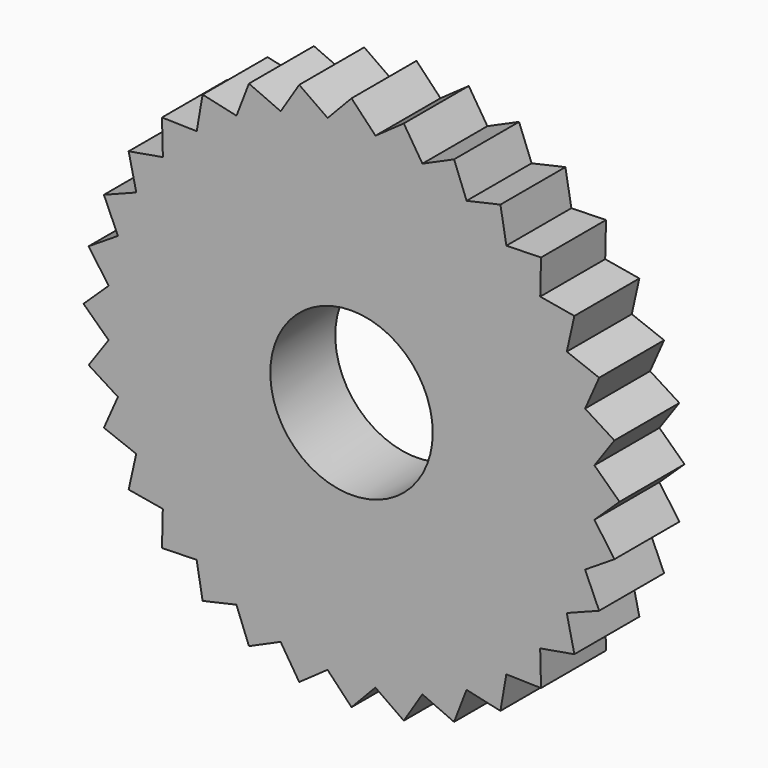
from build123d import *

# Parameters (mm, degrees)
F1_DEPTH = 25.4
F2_DEPTH = 25.4


with BuildPart() as f1:
    # F0 (on Front) → F1 (new body)
    with BuildSketch(Plane.XZ):
        with BuildLine():
            ThreePointArc((75.8463119216, -7.333278114), (76.1115266186, -3.6709012229), (76.2, 0))
            ThreePointArc((76.2, 0), (76.1122749967, 3.6553515317), (75.8493019732, 7.3022866401))
            ThreePointArc((75.8493019732, 7.3022866401), (75.8346004903, 7.4534132101), (75.8195978942, 7.6045101852))
            ThreePointArc((75.8195978942, 7.6045101852), (74.7388739127, 14.8506136664), (72.9672734521, 21.9594399966))
            ThreePointArc((72.9672734521, 21.9594399966), (72.9233711228, 22.1047945949), (72.87917924, 22.2500614226))
            ThreePointArc((72.87917924, 22.2500614226), (70.4055764051, 29.1460942677), (67.2811535328, 35.7727043889))
            ThreePointArc((67.2811535328, 35.7727043889), (67.209737499, 35.9067011198), (67.1380545986, 36.0405552776))
            ThreePointArc((67.1380545986, 36.0405552776), (63.3666320803, 42.3215068116), (59.0094566149, 48.2112438132))
            ThreePointArc((59.0094566149, 48.2112438132), (58.9132713548, 48.3287332575), (58.8168521705, 48.446030805))
            ThreePointArc((58.8168521705, 48.446030805), (53.892543621, 53.8705275829), (48.4700593721, 58.7970521749))
            ThreePointArc((48.4700593721, 58.7970521749), (48.3528012314, 58.8935192791), (48.2353510983, 58.9897525374))
            ThreePointArc((48.2353510983, 58.9897525374), (42.3473949336, 63.3493341902), (36.0679849301, 67.1233227953))
            ThreePointArc((36.0679849301, 67.1233227953), (35.9341600732, 67.1950603827), (35.8001925341, 67.2665311616))
            ThreePointArc((35.8001925341, 67.2665311616), (29.1748596076, 70.3936614112), (22.2798380543, 72.8700817639))
            ThreePointArc((22.2798380543, 72.8700817639), (22.1345892955, 72.9143329992), (21.9892526478, 72.9582947168))
            ThreePointArc((21.9892526478, 72.9582947168), (14.8811507884, 74.7327997014), (7.6354894968, 75.8164843563))
            ThreePointArc((7.6354894968, 75.8164843563), (7.4843986644, 75.8315486894), (7.333278114, 75.8463119216))
            ThreePointArc((7.333278114, 75.8463119216), (3.6709012229, 76.1115266186), (0, 76.2))
            ThreePointArc((0, 76.2), (-3.6553515317, 76.1122749967), (-7.3022866401, 75.8493019732))
            ThreePointArc((-7.3022866401, 75.8493019732), (-7.4534132101, 75.8346004903), (-7.6045101852, 75.8195978942))
            ThreePointArc((-7.6045101852, 75.8195978942), (-14.8506136664, 74.7388739127), (-21.9594399966, 72.9672734521))
            ThreePointArc((-21.9594399966, 72.9672734521), (-22.1047945949, 72.9233711228), (-22.2500614226, 72.87917924))
            ThreePointArc((-22.2500614226, 72.87917924), (-29.1460942677, 70.4055764051), (-35.7727043889, 67.2811535328))
            ThreePointArc((-35.7727043889, 67.2811535328), (-35.9067011198, 67.209737499), (-36.0405552776, 67.1380545986))
            ThreePointArc((-36.0405552776, 67.1380545986), (-42.3215068116, 63.3666320803), (-48.2112438132, 59.0094566149))
            ThreePointArc((-48.2112438132, 59.0094566149), (-48.3287332575, 58.9132713548), (-48.446030805, 58.8168521705))
            ThreePointArc((-48.446030805, 58.8168521705), (-53.8705275829, 53.892543621), (-58.7970521749, 48.4700593721))
            ThreePointArc((-58.7970521749, 48.4700593721), (-58.8935192791, 48.3528012314), (-58.9897525374, 48.2353510983))
            ThreePointArc((-58.9897525374, 48.2353510983), (-63.3493341902, 42.3473949336), (-67.1233227953, 36.0679849301))
            ThreePointArc((-67.1233227953, 36.0679849301), (-67.1950603827, 35.9341600732), (-67.2665311616, 35.8001925341))
            ThreePointArc((-67.2665311616, 35.8001925341), (-70.3936614112, 29.1748596076), (-72.8700817639, 22.2798380543))
            ThreePointArc((-72.8700817639, 22.2798380543), (-72.9143329992, 22.1345892955), (-72.9582947168, 21.9892526478))
            ThreePointArc((-72.9582947168, 21.9892526478), (-74.7327997014, 14.8811507884), (-75.8164843563, 7.6354894968))
            ThreePointArc((-75.8164843563, 7.6354894968), (-75.8315486894, 7.4843986644), (-75.8463119216, 7.333278114))
            ThreePointArc((-75.8463119216, 7.333278114), (-76.1999984098, 0.0155676898), (-75.8493019732, -7.3022866401))
            ThreePointArc((-75.8493019732, -7.3022866401), (-75.8346004903, -7.4534132101), (-75.8195978942, -7.6045101852))
            ThreePointArc((-75.8195978942, -7.6045101852), (-74.7388739127, -14.8506136664), (-72.9672734521, -21.9594399966))
            ThreePointArc((-72.9672734521, -21.9594399966), (-72.9233711228, -22.1047945949), (-72.87917924, -22.2500614226))
            ThreePointArc((-72.87917924, -22.2500614226), (-70.4055764051, -29.1460942677), (-67.2811535328, -35.7727043889))
            ThreePointArc((-67.2811535328, -35.7727043889), (-67.209737499, -35.9067011198), (-67.1380545986, -36.0405552776))
            ThreePointArc((-67.1380545986, -36.0405552776), (-63.3666320803, -42.3215068116), (-59.0094566149, -48.2112438132))
            ThreePointArc((-59.0094566149, -48.2112438132), (-58.9132713548, -48.3287332575), (-58.8168521705, -48.446030805))
            ThreePointArc((-58.8168521705, -48.446030805), (-53.892543621, -53.8705275829), (-48.4700593721, -58.7970521749))
            ThreePointArc((-48.4700593721, -58.7970521749), (-48.3528012314, -58.8935192791), (-48.2353510983, -58.9897525374))
            ThreePointArc((-48.2353510983, -58.9897525374), (-42.3473949336, -63.3493341902), (-36.0679849301, -67.1233227953))
            ThreePointArc((-36.0679849301, -67.1233227953), (-35.9341600732, -67.1950603827), (-35.8001925341, -67.2665311616))
            ThreePointArc((-35.8001925341, -67.2665311616), (-29.1748596076, -70.3936614112), (-22.2798380543, -72.8700817639))
            ThreePointArc((-22.2798380543, -72.8700817639), (-22.1345892955, -72.9143329992), (-21.9892526478, -72.9582947168))
            ThreePointArc((-21.9892526478, -72.9582947168), (-14.8811507884, -74.7327997014), (-7.6354894968, -75.8164843563))
            ThreePointArc((-7.6354894968, -75.8164843563), (-7.4843986644, -75.8315486894), (-7.333278114, -75.8463119216))
            ThreePointArc((-7.333278114, -75.8463119216), (-0.0155676898, -76.1999984098), (7.3022866401, -75.8493019732))
            ThreePointArc((7.3022866401, -75.8493019732), (7.4534132101, -75.8346004903), (7.6045101852, -75.8195978942))
            ThreePointArc((7.6045101852, -75.8195978942), (14.8506136664, -74.7388739127), (21.9594399966, -72.9672734521))
            ThreePointArc((21.9594399966, -72.9672734521), (22.1047945949, -72.9233711228), (22.2500614226, -72.87917924))
            ThreePointArc((22.2500614226, -72.87917924), (29.1460942677, -70.4055764051), (35.7727043889, -67.2811535328))
            ThreePointArc((35.7727043889, -67.2811535328), (35.9067011198, -67.209737499), (36.0405552776, -67.1380545986))
            ThreePointArc((36.0405552776, -67.1380545986), (42.3215068116, -63.3666320803), (48.2112438132, -59.0094566149))
            ThreePointArc((48.2112438132, -59.0094566149), (48.3287332575, -58.9132713548), (48.446030805, -58.8168521705))
            ThreePointArc((48.446030805, -58.8168521705), (53.8705275829, -53.892543621), (58.7970521749, -48.4700593721))
            ThreePointArc((58.7970521749, -48.4700593721), (58.8935192791, -48.3528012314), (58.9897525374, -48.2353510983))
            ThreePointArc((58.9897525374, -48.2353510983), (63.3493341902, -42.3473949336), (67.1233227953, -36.0679849301))
            ThreePointArc((67.1233227953, -36.0679849301), (67.1950603827, -35.9341600732), (67.2665311616, -35.8001925341))
            ThreePointArc((67.2665311616, -35.8001925341), (70.3936614112, -29.1748596076), (72.8700817639, -22.2798380543))
            ThreePointArc((72.8700817639, -22.2798380543), (72.9143329992, -22.1345892955), (72.9582947168, -21.9892526478))
            ThreePointArc((72.9582947168, -21.9892526478), (74.7327997014, -14.8811507884), (75.8164843563, -7.6354894968))
            ThreePointArc((75.8164843563, -7.6354894968), (75.8315486894, -7.4843986644), (75.8463119216, -7.333278114))
        make_face()
        with BuildLine():
            ThreePointArc((25.4, 0), (-17.9605122421, -17.9605122421), (0, 25.4))
            ThreePointArc((0, 25.4), (17.9605122421, 17.9605122421), (25.4, 0))
        make_face(mode=Mode.SUBTRACT)
    extrude(amount=F1_DEPTH)

    # F0 (on Front) → F2 (join)
    with BuildSketch(Plane.XZ):
        with BuildLine():
            ThreePointArc((75.8493019732, 7.3022866401), (76.1122749967, 3.6553515317), (76.2, 0))
            ThreePointArc((76.2, 0), (76.1115266186, -3.6709012229), (75.8463119216, -7.333278114))
            Line((75.8463119216, -7.333278114), (75.9617505843, -7.4969030545))
            Line((75.9617505843, -7.4969030545), (83.82, 0))
            Line((83.82, 0), (75.9647400778, 7.4665502179))
            Line((75.9647400778, 7.4665502179), (75.8493019732, 7.3022866401))
        make_face()
        with BuildLine():
            ThreePointArc((75.8195978942, 7.6045101852), (75.8346004903, 7.4534132101), (75.8493019732, 7.3022866401))
            Line((75.8493019732, 7.3022866401), (75.9647400778, 7.4665502179))
            Line((75.9647400778, 7.4665502179), (75.8195978942, 7.6045101852))
        make_face()
        with BuildLine():
            Line((75.9617505843, -7.4969030545), (75.8463119216, -7.333278114))
            ThreePointArc((75.8463119216, -7.333278114), (75.8315486894, -7.4843986644), (75.8164843563, -7.6354894968))
            Line((75.8164843563, -7.6354894968), (75.9617505843, -7.4969030545))
        make_face()
        with BuildLine():
            ThreePointArc((72.9672734521, 21.9594399966), (74.7388739127, 14.8506136664), (75.8195978942, 7.6045101852))
            Line((75.8195978942, 7.6045101852), (75.9647400778, 7.4665502179))
            Line((75.9647400778, 7.4665502179), (82.2094222034, 16.3524707914))
            Line((82.2094222034, 16.3524707914), (73.0484472116, 22.1430681527))
            Line((73.0484472116, 22.1430681527), (72.9672734521, 21.9594399966))
        make_face()
        with BuildLine():
            Line((75.9617505843, -7.4969030545), (75.8164843563, -7.6354894968))
            ThreePointArc((75.8164843563, -7.6354894968), (74.7327997014, -14.8811507884), (72.9582947168, -21.9892526478))
            Line((72.9582947168, -21.9892526478), (73.0395936157, -22.1722545469))
            Line((73.0395936157, -22.1722545469), (82.2094222034, -16.3524707914))
            Line((82.2094222034, -16.3524707914), (75.9617505843, -7.4969030545))
        make_face()
        with BuildLine():
            ThreePointArc((72.87917924, 22.2500614226), (72.9233711228, 22.1047945949), (72.9672734521, 21.9594399966))
            Line((72.9672734521, 21.9594399966), (73.0484472116, 22.1430681527))
            Line((73.0484472116, 22.1430681527), (72.87917924, 22.2500614226))
        make_face()
        with BuildLine():
            Line((73.0395936157, -22.1722545469), (72.9582947168, -21.9892526478))
            ThreePointArc((72.9582947168, -21.9892526478), (72.9143329992, -22.1345892955), (72.8700817639, -22.2798380543))
            Line((72.8700817639, -22.2798380543), (73.0395936157, -22.1722545469))
        make_face()
        with BuildLine():
            ThreePointArc((67.2811535328, 35.7727043889), (70.4055764051, 29.1460942677), (72.87917924, 22.2500614226))
            Line((72.87917924, 22.2500614226), (73.0484472116, 22.1430681527))
            Line((73.0484472116, 22.1430681527), (77.4395824151, 32.0765253008))
            Line((77.4395824151, 32.0765253008), (67.3249434851, 35.9686403965))
            Line((67.3249434851, 35.9686403965), (67.2811535328, 35.7727043889))
        make_face()
        with BuildLine():
            Line((73.0395936157, -22.1722545469), (72.8700817639, -22.2798380543))
            ThreePointArc((72.8700817639, -22.2798380543), (70.3936614112, -29.1748596076), (67.2665311616, -35.8001925341))
            Line((67.2665311616, -35.8001925341), (67.3105660255, -35.9955387314))
            Line((67.3105660255, -35.9955387314), (77.4395824151, -32.0765253008))
            Line((77.4395824151, -32.0765253008), (73.0395936157, -22.1722545469))
        make_face()
        with BuildLine():
            ThreePointArc((67.1380545986, 36.0405552776), (67.209737499, 35.9067011198), (67.2811535328, 35.7727043889))
            Line((67.2811535328, 35.7727043889), (67.3249434851, 35.9686403965))
            Line((67.3249434851, 35.9686403965), (67.1380545986, 36.0405552776))
        make_face()
        with BuildLine():
            Line((67.3105660255, -35.9955387314), (67.2665311616, -35.8001925341))
            ThreePointArc((67.2665311616, -35.8001925341), (67.1950603827, -35.9341600732), (67.1233227953, -36.0679849301))
            Line((67.1233227953, -36.0679849301), (67.3105660255, -35.9955387314))
        make_face()
        with BuildLine():
            ThreePointArc((59.0094566149, 48.2112438132), (63.3666320803, 42.3215068116), (67.1380545986, 36.0405552776))
            Line((67.1380545986, 36.0405552776), (67.3249434851, 35.9686403965))
            Line((67.3249434851, 35.9686403965), (69.6937829032, 46.5678969317))
            Line((69.6937829032, 46.5678969317), (59.0141799367, 48.4119579612))
            Line((59.0141799367, 48.4119579612), (59.0094566149, 48.2112438132))
        make_face()
        with BuildLine():
            Line((67.3105660255, -35.9955387314), (67.1233227953, -36.0679849301))
            ThreePointArc((67.1233227953, -36.0679849301), (63.3493341902, -42.3473949336), (58.9897525374, -48.2353510983))
            Line((58.9897525374, -48.2353510983), (58.9948311312, -48.4355345489))
            Line((58.9948311312, -48.4355345489), (69.6937829032, -46.5678969317))
            Line((69.6937829032, -46.5678969317), (67.3105660255, -35.9955387314))
        make_face()
        with BuildLine():
            ThreePointArc((58.8168521705, 48.446030805), (58.9132713548, 48.3287332575), (59.0094566149, 48.2112438132))
            Line((59.0094566149, 48.2112438132), (59.0141799367, 48.4119579612))
            Line((59.0141799367, 48.4119579612), (58.8168521705, 48.446030805))
        make_face()
        with BuildLine():
            Line((58.9948311312, -48.4355345489), (58.9897525374, -48.2353510983))
            ThreePointArc((58.9897525374, -48.2353510983), (58.8935192791, -48.3528012314), (58.7970521749, -48.4700593721))
            Line((58.7970521749, -48.4700593721), (58.9948311312, -48.4355345489))
        make_face()
        with BuildLine():
            ThreePointArc((48.4700593721, 58.7970521749), (53.892543621, 53.8705275829), (58.8168521705, 48.446030805))
            Line((58.8168521705, 48.446030805), (59.0141799367, 48.4119579612))
            Line((59.0141799367, 48.4119579612), (59.2696903991, 59.2696903991))
            Line((59.2696903991, 59.2696903991), (48.4355345489, 58.9948311312))
            Line((48.4355345489, 58.9948311312), (48.4700593721, 58.7970521749))
        make_face()
        with BuildLine():
            Line((58.9948311312, -48.4355345489), (58.7970521749, -48.4700593721))
            ThreePointArc((58.7970521749, -48.4700593721), (53.8705275829, -53.892543621), (48.446030805, -58.8168521705))
            Line((48.446030805, -58.8168521705), (48.4119579612, -59.0141799367))
            Line((48.4119579612, -59.0141799367), (59.2696903991, -59.2696903991))
            Line((59.2696903991, -59.2696903991), (58.9948311312, -48.4355345489))
        make_face()
        with BuildLine():
            ThreePointArc((48.2353510983, 58.9897525374), (48.3528012314, 58.8935192791), (48.4700593721, 58.7970521749))
            Line((48.4700593721, 58.7970521749), (48.4355345489, 58.9948311312))
            Line((48.4355345489, 58.9948311312), (48.2353510983, 58.9897525374))
        make_face()
        with BuildLine():
            Line((48.4119579612, -59.0141799367), (48.446030805, -58.8168521705))
            ThreePointArc((48.446030805, -58.8168521705), (48.3287332575, -58.9132713548), (48.2112438132, -59.0094566149))
            Line((48.2112438132, -59.0094566149), (48.4119579612, -59.0141799367))
        make_face()
        with BuildLine():
            ThreePointArc((36.0679849301, 67.1233227953), (42.3473949336, 63.3493341902), (48.2353510983, 58.9897525374))
            Line((48.2353510983, 58.9897525374), (48.4355345489, 58.9948311312))
            Line((48.4355345489, 58.9948311312), (46.5678969317, 69.6937829032))
            Line((46.5678969317, 69.6937829032), (35.9955387314, 67.3105660255))
            Line((35.9955387314, 67.3105660255), (36.0679849301, 67.1233227953))
        make_face()
        with BuildLine():
            Line((48.4119579612, -59.0141799367), (48.2112438132, -59.0094566149))
            ThreePointArc((48.2112438132, -59.0094566149), (42.3215068116, -63.3666320803), (36.0405552776, -67.1380545986))
            Line((36.0405552776, -67.1380545986), (35.9686403965, -67.3249434851))
            Line((35.9686403965, -67.3249434851), (46.5678969317, -69.6937829032))
            Line((46.5678969317, -69.6937829032), (48.4119579612, -59.0141799367))
        make_face()
        with BuildLine():
            ThreePointArc((35.8001925341, 67.2665311616), (35.9341600732, 67.1950603827), (36.0679849301, 67.1233227953))
            Line((36.0679849301, 67.1233227953), (35.9955387314, 67.3105660255))
            Line((35.9955387314, 67.3105660255), (35.8001925341, 67.2665311616))
        make_face()
        with BuildLine():
            Line((35.9686403965, -67.3249434851), (36.0405552776, -67.1380545986))
            ThreePointArc((36.0405552776, -67.1380545986), (35.9067011198, -67.209737499), (35.7727043889, -67.2811535328))
            Line((35.7727043889, -67.2811535328), (35.9686403965, -67.3249434851))
        make_face()
        with BuildLine():
            ThreePointArc((22.2798380543, 72.8700817639), (29.1748596076, 70.3936614112), (35.8001925341, 67.2665311616))
            Line((35.8001925341, 67.2665311616), (35.9955387314, 67.3105660255))
            Line((35.9955387314, 67.3105660255), (32.0765253008, 77.4395824151))
            Line((32.0765253008, 77.4395824151), (22.1722545469, 73.0395936157))
            Line((22.1722545469, 73.0395936157), (22.2798380543, 72.8700817639))
        make_face()
        with BuildLine():
            Line((35.9686403965, -67.3249434851), (35.7727043889, -67.2811535328))
            ThreePointArc((35.7727043889, -67.2811535328), (29.1460942677, -70.4055764051), (22.2500614226, -72.87917924))
            Line((22.2500614226, -72.87917924), (22.1430681527, -73.0484472116))
            Line((22.1430681527, -73.0484472116), (32.0765253008, -77.4395824151))
            Line((32.0765253008, -77.4395824151), (35.9686403965, -67.3249434851))
        make_face()
        with BuildLine():
            ThreePointArc((21.9892526478, 72.9582947168), (22.1345892955, 72.9143329992), (22.2798380543, 72.8700817639))
            Line((22.2798380543, 72.8700817639), (22.1722545469, 73.0395936157))
            Line((22.1722545469, 73.0395936157), (21.9892526478, 72.9582947168))
        make_face()
        with BuildLine():
            Line((22.1430681527, -73.0484472116), (22.2500614226, -72.87917924))
            ThreePointArc((22.2500614226, -72.87917924), (22.1047945949, -72.9233711228), (21.9594399966, -72.9672734521))
            Line((21.9594399966, -72.9672734521), (22.1430681527, -73.0484472116))
        make_face()
        with BuildLine():
            ThreePointArc((7.6354894968, 75.8164843563), (14.8811507884, 74.7327997014), (21.9892526478, 72.9582947168))
            Line((21.9892526478, 72.9582947168), (22.1722545469, 73.0395936157))
            Line((22.1722545469, 73.0395936157), (16.3524707914, 82.2094222034))
            Line((16.3524707914, 82.2094222034), (7.4969030545, 75.9617505843))
            Line((7.4969030545, 75.9617505843), (7.6354894968, 75.8164843563))
        make_face()
        with BuildLine():
            Line((22.1430681527, -73.0484472116), (21.9594399966, -72.9672734521))
            ThreePointArc((21.9594399966, -72.9672734521), (14.8506136664, -74.7388739127), (7.6045101852, -75.8195978942))
            Line((7.6045101852, -75.8195978942), (7.4665502179, -75.9647400778))
            Line((7.4665502179, -75.9647400778), (16.3524707914, -82.2094222034))
            Line((16.3524707914, -82.2094222034), (22.1430681527, -73.0484472116))
        make_face()
        with BuildLine():
            ThreePointArc((7.333278114, 75.8463119216), (7.4843986644, 75.8315486894), (7.6354894968, 75.8164843563))
            Line((7.6354894968, 75.8164843563), (7.4969030545, 75.9617505843))
            Line((7.4969030545, 75.9617505843), (7.333278114, 75.8463119216))
        make_face()
        with BuildLine():
            Line((7.4665502179, -75.9647400778), (7.6045101852, -75.8195978942))
            ThreePointArc((7.6045101852, -75.8195978942), (7.4534132101, -75.8346004903), (7.3022866401, -75.8493019732))
            Line((7.3022866401, -75.8493019732), (7.4665502179, -75.9647400778))
        make_face()
        with BuildLine():
            ThreePointArc((0, 76.2), (3.6709012229, 76.1115266186), (7.333278114, 75.8463119216))
            Line((7.333278114, 75.8463119216), (7.4969030545, 75.9617505843))
            Line((7.4969030545, 75.9617505843), (0, 83.82))
            Line((0, 83.82), (0, 76.2))
        make_face()
        with BuildLine():
            Line((7.4665502179, -75.9647400778), (7.3022866401, -75.8493019732))
            ThreePointArc((7.3022866401, -75.8493019732), (-0.0155676898, -76.1999984098), (-7.333278114, -75.8463119216))
            Line((-7.333278114, -75.8463119216), (-7.4969030545, -75.9617505843))
            Line((-7.4969030545, -75.9617505843), (0, -83.82))
            Line((0, -83.82), (7.4665502179, -75.9647400778))
        make_face()
        with BuildLine():
            ThreePointArc((-7.3022866401, 75.8493019732), (-3.6553515317, 76.1122749967), (0, 76.2))
            Line((0, 76.2), (0, 83.82))
            Line((0, 83.82), (-7.4665502179, 75.9647400778))
            Line((-7.4665502179, 75.9647400778), (-7.3022866401, 75.8493019732))
        make_face()
        with BuildLine():
            Line((-7.4969030545, -75.9617505843), (-7.333278114, -75.8463119216))
            ThreePointArc((-7.333278114, -75.8463119216), (-7.4843986644, -75.8315486894), (-7.6354894968, -75.8164843563))
            Line((-7.6354894968, -75.8164843563), (-7.4969030545, -75.9617505843))
        make_face()
        with BuildLine():
            ThreePointArc((-7.6045101852, 75.8195978942), (-7.4534132101, 75.8346004903), (-7.3022866401, 75.8493019732))
            Line((-7.3022866401, 75.8493019732), (-7.4665502179, 75.9647400778))
            Line((-7.4665502179, 75.9647400778), (-7.6045101852, 75.8195978942))
        make_face()
        with BuildLine():
            Line((-7.6045101852, 75.8195978942), (-7.4665502179, 75.9647400778))
            Line((-7.4665502179, 75.9647400778), (-16.3524707914, 82.2094222034))
            Line((-16.3524707914, 82.2094222034), (-22.1430681527, 73.0484472116))
            Line((-22.1430681527, 73.0484472116), (-21.9594399966, 72.9672734521))
            ThreePointArc((-21.9594399966, 72.9672734521), (-14.8506136664, 74.7388739127), (-7.6045101852, 75.8195978942))
        make_face()
        with BuildLine():
            Line((-7.4969030545, -75.9617505843), (-7.6354894968, -75.8164843563))
            ThreePointArc((-7.6354894968, -75.8164843563), (-14.8811507884, -74.7327997014), (-21.9892526478, -72.9582947168))
            Line((-21.9892526478, -72.9582947168), (-22.1722545469, -73.0395936157))
            Line((-22.1722545469, -73.0395936157), (-16.3524707914, -82.2094222034))
            Line((-16.3524707914, -82.2094222034), (-7.4969030545, -75.9617505843))
        make_face()
        with BuildLine():
            Line((-22.1722545469, -73.0395936157), (-21.9892526478, -72.9582947168))
            ThreePointArc((-21.9892526478, -72.9582947168), (-22.1345892955, -72.9143329992), (-22.2798380543, -72.8700817639))
            Line((-22.2798380543, -72.8700817639), (-22.1722545469, -73.0395936157))
        make_face()
        with BuildLine():
            ThreePointArc((-22.2500614226, 72.87917924), (-22.1047945949, 72.9233711228), (-21.9594399966, 72.9672734521))
            Line((-21.9594399966, 72.9672734521), (-22.1430681527, 73.0484472116))
            Line((-22.1430681527, 73.0484472116), (-22.2500614226, 72.87917924))
        make_face()
        with BuildLine():
            Line((-22.2500614226, 72.87917924), (-22.1430681527, 73.0484472116))
            Line((-22.1430681527, 73.0484472116), (-32.0765253008, 77.4395824151))
            Line((-32.0765253008, 77.4395824151), (-35.9686403965, 67.3249434851))
            Line((-35.9686403965, 67.3249434851), (-35.7727043889, 67.2811535328))
            ThreePointArc((-35.7727043889, 67.2811535328), (-29.1460942677, 70.4055764051), (-22.2500614226, 72.87917924))
        make_face()
        with BuildLine():
            Line((-22.1722545469, -73.0395936157), (-22.2798380543, -72.8700817639))
            ThreePointArc((-22.2798380543, -72.8700817639), (-29.1748596076, -70.3936614112), (-35.8001925341, -67.2665311616))
            Line((-35.8001925341, -67.2665311616), (-35.9955387314, -67.3105660255))
            Line((-35.9955387314, -67.3105660255), (-32.0765253008, -77.4395824151))
            Line((-32.0765253008, -77.4395824151), (-22.1722545469, -73.0395936157))
        make_face()
        with BuildLine():
            Line((-35.9955387314, -67.3105660255), (-35.8001925341, -67.2665311616))
            ThreePointArc((-35.8001925341, -67.2665311616), (-35.9341600732, -67.1950603827), (-36.0679849301, -67.1233227953))
            Line((-36.0679849301, -67.1233227953), (-35.9955387314, -67.3105660255))
        make_face()
        with BuildLine():
            ThreePointArc((-36.0405552776, 67.1380545986), (-35.9067011198, 67.209737499), (-35.7727043889, 67.2811535328))
            Line((-35.7727043889, 67.2811535328), (-35.9686403965, 67.3249434851))
            Line((-35.9686403965, 67.3249434851), (-36.0405552776, 67.1380545986))
        make_face()
        with BuildLine():
            Line((-36.0405552776, 67.1380545986), (-35.9686403965, 67.3249434851))
            Line((-35.9686403965, 67.3249434851), (-46.5678969317, 69.6937829032))
            Line((-46.5678969317, 69.6937829032), (-48.4119579612, 59.0141799367))
            Line((-48.4119579612, 59.0141799367), (-48.2112438132, 59.0094566149))
            ThreePointArc((-48.2112438132, 59.0094566149), (-42.3215068116, 63.3666320803), (-36.0405552776, 67.1380545986))
        make_face()
        with BuildLine():
            Line((-35.9955387314, -67.3105660255), (-36.0679849301, -67.1233227953))
            ThreePointArc((-36.0679849301, -67.1233227953), (-42.3473949336, -63.3493341902), (-48.2353510983, -58.9897525374))
            Line((-48.2353510983, -58.9897525374), (-48.4355345489, -58.9948311312))
            Line((-48.4355345489, -58.9948311312), (-46.5678969317, -69.6937829032))
            Line((-46.5678969317, -69.6937829032), (-35.9955387314, -67.3105660255))
        make_face()
        with BuildLine():
            Line((-48.4355345489, -58.9948311312), (-48.2353510983, -58.9897525374))
            ThreePointArc((-48.2353510983, -58.9897525374), (-48.3528012314, -58.8935192791), (-48.4700593721, -58.7970521749))
            Line((-48.4700593721, -58.7970521749), (-48.4355345489, -58.9948311312))
        make_face()
        with BuildLine():
            ThreePointArc((-48.446030805, 58.8168521705), (-48.3287332575, 58.9132713548), (-48.2112438132, 59.0094566149))
            Line((-48.2112438132, 59.0094566149), (-48.4119579612, 59.0141799367))
            Line((-48.4119579612, 59.0141799367), (-48.446030805, 58.8168521705))
        make_face()
        with BuildLine():
            Line((-48.446030805, 58.8168521705), (-48.4119579612, 59.0141799367))
            Line((-48.4119579612, 59.0141799367), (-59.2696903991, 59.2696903991))
            Line((-59.2696903991, 59.2696903991), (-58.9948311312, 48.4355345489))
            Line((-58.9948311312, 48.4355345489), (-58.7970521749, 48.4700593721))
            ThreePointArc((-58.7970521749, 48.4700593721), (-53.8705275829, 53.892543621), (-48.446030805, 58.8168521705))
        make_face()
        with BuildLine():
            Line((-48.4355345489, -58.9948311312), (-48.4700593721, -58.7970521749))
            ThreePointArc((-48.4700593721, -58.7970521749), (-53.892543621, -53.8705275829), (-58.8168521705, -48.446030805))
            Line((-58.8168521705, -48.446030805), (-59.0141799367, -48.4119579612))
            Line((-59.0141799367, -48.4119579612), (-59.2696903991, -59.2696903991))
            Line((-59.2696903991, -59.2696903991), (-48.4355345489, -58.9948311312))
        make_face()
        with BuildLine():
            Line((-59.0141799367, -48.4119579612), (-58.8168521705, -48.446030805))
            ThreePointArc((-58.8168521705, -48.446030805), (-58.9132713548, -48.3287332575), (-59.0094566149, -48.2112438132))
            Line((-59.0094566149, -48.2112438132), (-59.0141799367, -48.4119579612))
        make_face()
        with BuildLine():
            ThreePointArc((-58.9897525374, 48.2353510983), (-58.8935192791, 48.3528012314), (-58.7970521749, 48.4700593721))
            Line((-58.7970521749, 48.4700593721), (-58.9948311312, 48.4355345489))
            Line((-58.9948311312, 48.4355345489), (-58.9897525374, 48.2353510983))
        make_face()
        with BuildLine():
            Line((-58.9897525374, 48.2353510983), (-58.9948311312, 48.4355345489))
            Line((-58.9948311312, 48.4355345489), (-69.6937829032, 46.5678969317))
            Line((-69.6937829032, 46.5678969317), (-67.3105660255, 35.9955387314))
            Line((-67.3105660255, 35.9955387314), (-67.1233227953, 36.0679849301))
            ThreePointArc((-67.1233227953, 36.0679849301), (-63.3493341902, 42.3473949336), (-58.9897525374, 48.2353510983))
        make_face()
        with BuildLine():
            Line((-59.0141799367, -48.4119579612), (-59.0094566149, -48.2112438132))
            ThreePointArc((-59.0094566149, -48.2112438132), (-63.3666320803, -42.3215068116), (-67.1380545986, -36.0405552776))
            Line((-67.1380545986, -36.0405552776), (-67.3249434851, -35.9686403965))
            Line((-67.3249434851, -35.9686403965), (-69.6937829032, -46.5678969317))
            Line((-69.6937829032, -46.5678969317), (-59.0141799367, -48.4119579612))
        make_face()
        with BuildLine():
            Line((-67.3249434851, -35.9686403965), (-67.1380545986, -36.0405552776))
            ThreePointArc((-67.1380545986, -36.0405552776), (-67.209737499, -35.9067011198), (-67.2811535328, -35.7727043889))
            Line((-67.2811535328, -35.7727043889), (-67.3249434851, -35.9686403965))
        make_face()
        with BuildLine():
            ThreePointArc((-67.2665311616, 35.8001925341), (-67.1950603827, 35.9341600732), (-67.1233227953, 36.0679849301))
            Line((-67.1233227953, 36.0679849301), (-67.3105660255, 35.9955387314))
            Line((-67.3105660255, 35.9955387314), (-67.2665311616, 35.8001925341))
        make_face()
        with BuildLine():
            Line((-67.2665311616, 35.8001925341), (-67.3105660255, 35.9955387314))
            Line((-67.3105660255, 35.9955387314), (-77.4395824151, 32.0765253008))
            Line((-77.4395824151, 32.0765253008), (-73.0395936157, 22.1722545469))
            Line((-73.0395936157, 22.1722545469), (-72.8700817639, 22.2798380543))
            ThreePointArc((-72.8700817639, 22.2798380543), (-70.3936614112, 29.1748596076), (-67.2665311616, 35.8001925341))
        make_face()
        with BuildLine():
            Line((-67.3249434851, -35.9686403965), (-67.2811535328, -35.7727043889))
            ThreePointArc((-67.2811535328, -35.7727043889), (-70.4055764051, -29.1460942677), (-72.87917924, -22.2500614226))
            Line((-72.87917924, -22.2500614226), (-73.0484472116, -22.1430681527))
            Line((-73.0484472116, -22.1430681527), (-77.4395824151, -32.0765253008))
            Line((-77.4395824151, -32.0765253008), (-67.3249434851, -35.9686403965))
        make_face()
        with BuildLine():
            Line((-73.0484472116, -22.1430681527), (-72.87917924, -22.2500614226))
            ThreePointArc((-72.87917924, -22.2500614226), (-72.9233711228, -22.1047945949), (-72.9672734521, -21.9594399966))
            Line((-72.9672734521, -21.9594399966), (-73.0484472116, -22.1430681527))
        make_face()
        with BuildLine():
            ThreePointArc((-72.9582947168, 21.9892526478), (-72.9143329992, 22.1345892955), (-72.8700817639, 22.2798380543))
            Line((-72.8700817639, 22.2798380543), (-73.0395936157, 22.1722545469))
            Line((-73.0395936157, 22.1722545469), (-72.9582947168, 21.9892526478))
        make_face()
        with BuildLine():
            Line((-72.9582947168, 21.9892526478), (-73.0395936157, 22.1722545469))
            Line((-73.0395936157, 22.1722545469), (-82.2094222034, 16.3524707914))
            Line((-82.2094222034, 16.3524707914), (-75.9617505843, 7.4969030545))
            Line((-75.9617505843, 7.4969030545), (-75.8164843563, 7.6354894968))
            ThreePointArc((-75.8164843563, 7.6354894968), (-74.7327997014, 14.8811507884), (-72.9582947168, 21.9892526478))
        make_face()
        with BuildLine():
            Line((-73.0484472116, -22.1430681527), (-72.9672734521, -21.9594399966))
            ThreePointArc((-72.9672734521, -21.9594399966), (-74.7388739127, -14.8506136664), (-75.8195978942, -7.6045101852))
            Line((-75.8195978942, -7.6045101852), (-75.9647400778, -7.4665502179))
            Line((-75.9647400778, -7.4665502179), (-82.2094222034, -16.3524707914))
            Line((-82.2094222034, -16.3524707914), (-73.0484472116, -22.1430681527))
        make_face()
        with BuildLine():
            Line((-75.9647400778, -7.4665502179), (-75.8195978942, -7.6045101852))
            ThreePointArc((-75.8195978942, -7.6045101852), (-75.8346004903, -7.4534132101), (-75.8493019732, -7.3022866401))
            Line((-75.8493019732, -7.3022866401), (-75.9647400778, -7.4665502179))
        make_face()
        with BuildLine():
            ThreePointArc((-75.8463119216, 7.333278114), (-75.8315486894, 7.4843986644), (-75.8164843563, 7.6354894968))
            Line((-75.8164843563, 7.6354894968), (-75.9617505843, 7.4969030545))
            Line((-75.9617505843, 7.4969030545), (-75.8463119216, 7.333278114))
        make_face()
        with BuildLine():
            Line((-75.8463119216, 7.333278114), (-75.9617505843, 7.4969030545))
            Line((-75.9617505843, 7.4969030545), (-83.82, 0))
            Line((-83.82, 0), (-75.9647400778, -7.4665502179))
            Line((-75.9647400778, -7.4665502179), (-75.8493019732, -7.3022866401))
            ThreePointArc((-75.8493019732, -7.3022866401), (-76.1999984098, 0.0155676898), (-75.8463119216, 7.333278114))
        make_face()
    extrude(amount=F2_DEPTH)


solid = f1.part
